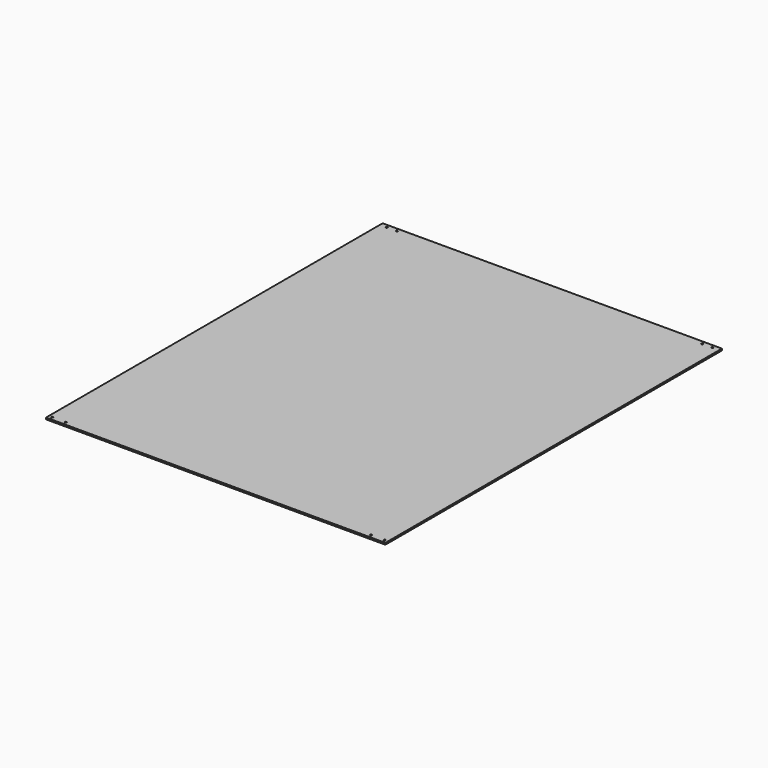
from build123d import *

# Parameters (mm, degrees)
F0_W     = 635
F0_H     = 787.4
F0_R     = 1.5875
F1_DEPTH = 3.175


with BuildPart() as f1:
    # F0 (on Top) → F1 (new body)
    with BuildSketch(Plane.XY):
        with Locations((-18.906738, -10.947095)):
            Rectangle(F0_W, F0_H)
        with Locations((-330.056738, -398.297095)):
            Circle(F0_R, mode=Mode.SUBTRACT)
        with Locations((-304.656738, -398.297095)):
            Circle(F0_R, mode=Mode.SUBTRACT)
        with Locations((266.843262, -398.297095)):
            Circle(F0_R, mode=Mode.SUBTRACT)
        with Locations((292.243262, -398.297095)):
            Circle(F0_R, mode=Mode.SUBTRACT)
        with Locations((-323.706738, 376.402905)):
            Circle(F0_R, mode=Mode.SUBTRACT)
        with Locations((-304.656738, 376.402905)):
            Circle(F0_R, mode=Mode.SUBTRACT)
        with Locations((266.843262, 376.402905)):
            Circle(F0_R, mode=Mode.SUBTRACT)
        with Locations((285.893262, 376.402905)):
            Circle(F0_R, mode=Mode.SUBTRACT)
    extrude(amount=-F1_DEPTH)


solid = f1.part
